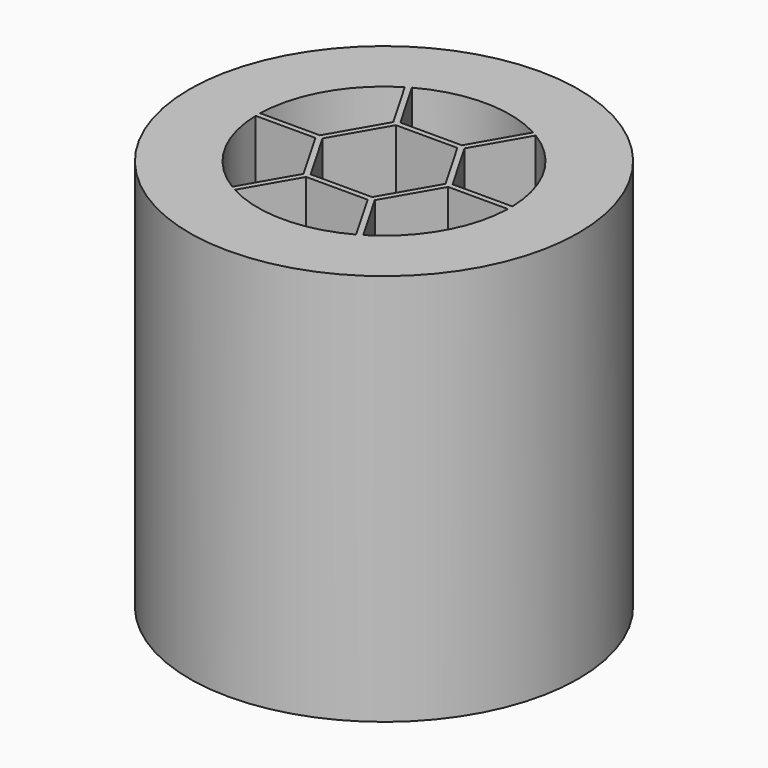
from build123d import *

# Parameters (mm, degrees)
F0_R     = 3.47
F1_DEPTH = 7
F3_DEPTH = 7


with BuildPart() as f1:
    # F0 (on Top) → F1 (new body)
    with BuildSketch(Plane.XY):
        Circle(F0_R)
    extrude(amount=F1_DEPTH)

    # F2 (on face) → F3 (cut)
    with BuildSketch(Plane.XY.offset(7)):
        with BuildLine():
            Line((-0.635085, 1), (-1.168023, 1.923076))
            ThreePointArc((-1.168023, 1.923076), (-1.948557, 1.125), (-2.249444, 0.05))
            Line((-2.249444, 0.05), (-1.183568, 0.05))
            Line((-1.183568, 0.05), (-0.635085, 1))
        make_face()
        with BuildLine():
            Line((-1.081421, 1.973076), (-0.548483, 1.05))
            Line((-0.548483, 1.05), (0.548483, 1.05))
            Line((0.548483, 1.05), (1.081421, 1.973076))
            ThreePointArc((1.081421, 1.973076), (0, 2.25), (-1.081421, 1.973076))
        make_face()
        with BuildLine():
            ThreePointArc((2.249444, 0.05), (1.948557, 1.125), (1.168023, 1.923076))
            Line((1.168023, 1.923076), (0.635085, 1))
            Line((0.635085, 1), (1.183568, 0.05))
            Line((1.183568, 0.05), (2.249444, 0.05))
        make_face()
        Polygon((-0.548483, -0.95), (0.548483, -0.95), (1.096966, 0), (0.548483, 0.95), (-0.548483, 0.95), (-1.096966, 0), align=None)
        with BuildLine():
            ThreePointArc((1.168023, -1.923076), (1.948557, -1.125), (2.249444, -0.05))
            Line((2.249444, -0.05), (1.183568, -0.05))
            Line((1.183568, -0.05), (0.635085, -1))
            Line((0.635085, -1), (1.168023, -1.923076))
        make_face()
        with BuildLine():
            Line((-0.548483, -1.05), (-1.081421, -1.973076))
            ThreePointArc((-1.081421, -1.973076), (0, -2.25), (1.081421, -1.973076))
            Line((1.081421, -1.973076), (0.548483, -1.05))
            Line((0.548483, -1.05), (-0.548483, -1.05))
        make_face()
        with BuildLine():
            Line((-1.183568, -0.05), (-2.249444, -0.05))
            ThreePointArc((-2.249444, -0.05), (-1.948557, -1.125), (-1.168023, -1.923076))
            Line((-1.168023, -1.923076), (-0.635085, -1))
            Line((-0.635085, -1), (-1.183568, -0.05))
        make_face()
    extrude(amount=-F3_DEPTH, mode=Mode.SUBTRACT)


solid = f1.part
